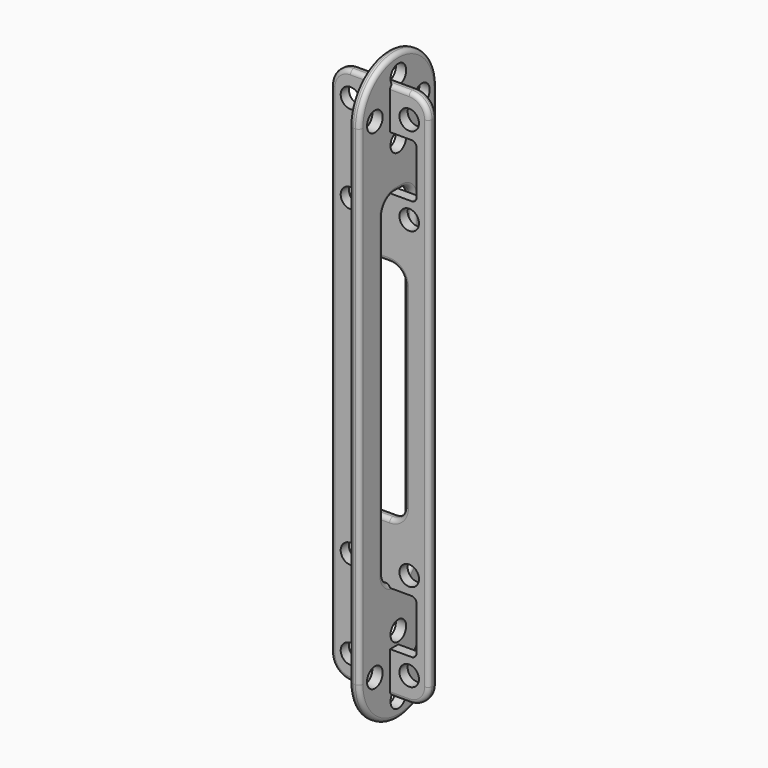
from build123d import *

# Parameters (mm, degrees)
F4_R      = 2
F5_DEPTH  = 2.1
F7_DEPTH  = 2.1
F8_R      = 0.84
F9_R      = 2
F10_DEPTH = 2.1
F11_R     = 0.84


with BuildPart() as f5:
    # F4 (on Front) → F5 (new body)
    with BuildSketch(Plane.XZ):
        with BuildLine():
            ThreePointArc((10, 101), (8.8284271247, 103.8284271247), (6, 105))
            Line((6, 105), (-6, 105))
            ThreePointArc((-6, 105), (-8.8284271247, 103.8284271247), (-10, 101))
            Line((-10, 101), (-10, -1))
            ThreePointArc((-10, -1), (-8.8284271247, -3.8284271247), (-6, -5))
            Line((-6, -5), (6, -5))
            ThreePointArc((6, -5), (8.8284271247, -3.8284271247), (10, -1))
            Line((10, -1), (10, 101))
        make_face()
        with Locations((-6, 0)):
            Circle(F4_R, mode=Mode.SUBTRACT)
        with Locations((-6, 18)):
            Circle(F4_R, mode=Mode.SUBTRACT)
        with Locations((6, 0)):
            Circle(F4_R, mode=Mode.SUBTRACT)
        with Locations((6, 18)):
            Circle(F4_R, mode=Mode.SUBTRACT)
        with BuildLine():
            ThreePointArc((5, 30), (4.1213203436, 27.8786796564), (2, 27))
            Line((2, 27), (-2, 27))
            ThreePointArc((-2, 27), (-4.1213203436, 27.8786796564), (-5, 30))
            Line((-5, 30), (-5, 70))
            ThreePointArc((-5, 70), (-4.1213203436, 72.1213203436), (-2, 73))
            Line((-2, 73), (2, 73))
            ThreePointArc((2, 73), (4.1213203436, 72.1213203436), (5, 70))
            Line((5, 70), (5, 30))
        make_face(mode=Mode.SUBTRACT)
        with Locations((-6, 82)):
            Circle(F4_R, mode=Mode.SUBTRACT)
        with Locations((-6, 100)):
            Circle(F4_R, mode=Mode.SUBTRACT)
        with Locations((6, 82)):
            Circle(F4_R, mode=Mode.SUBTRACT)
        with Locations((6, 100)):
            Circle(F4_R, mode=Mode.SUBTRACT)
    extrude(amount=F5_DEPTH)

    # F6 (on Front) → F7 (cut, through all)
    with BuildSketch(Plane.XZ):
        with BuildLine():
            Line((6.5, 14.5), (-0.5, 14.5))
            ThreePointArc((-0.5, 14.5), (-1.2071067812, 14.2071067812), (-1.5, 13.5))
            Line((-1.5, 13.5), (-1.5, 4.5))
            ThreePointArc((-1.5, 4.5), (-1.2071067812, 3.7928932188), (-0.5, 3.5))
            Line((-0.5, 3.5), (6.5, 3.5))
            ThreePointArc((6.5, 3.5), (7.2071067812, 3.7928932188), (7.5, 4.5))
            Line((7.5, 4.5), (7.5, 13.5))
            ThreePointArc((7.5, 13.5), (7.2071067812, 14.2071067812), (6.5, 14.5))
        make_face()
        with BuildLine():
            ThreePointArc((-1.5, 86.5), (-1.2071067812, 85.7928932188), (-0.5, 85.5))
            Line((-0.5, 85.5), (6.5, 85.5))
            ThreePointArc((6.5, 85.5), (7.2071067812, 85.7928932188), (7.5, 86.5))
            Line((7.5, 86.5), (7.5, 95.5))
            ThreePointArc((7.5, 95.5), (7.2071067812, 96.2071067812), (6.5, 96.5))
            Line((6.5, 96.5), (-0.5, 96.5))
            ThreePointArc((-0.5, 96.5), (-1.2071067812, 96.2071067812), (-1.5, 95.5))
            Line((-1.5, 95.5), (-1.5, 86.5))
        make_face()
    extrude(amount=F7_DEPTH, mode=Mode.SUBTRACT)

    # F8
    f8_edges = [f5.edges().sort_by_distance(p)[0] for p in [
        (10, -1.05, -1),
        (10, -1.05, 101),
        (10, 0, 50),
        (10, -2.1, 50),
        (-5, -1.05, 30),
        (-5, -1.05, 70),
        (-5, 0, 50),
        (-5, -2.1, 50),
    ]]
    fillet(f8_edges, radius=F8_R)


with BuildPart() as f10:
    # F9 (on Right) → F10 (new body)
    with BuildSketch(Plane.YZ):
        with BuildLine():
            ThreePointArc((-9.9, 100), (0, 90.1), (9.9, 100))
            ThreePointArc((9.9, 100), (0, 109.9), (-9.9, 100))
        make_face()
        with Locations((-6, 100)):
            Circle(F9_R, mode=Mode.SUBTRACT)
        with Locations((0, 94)):
            Circle(F9_R, mode=Mode.SUBTRACT)
        with Locations((0, 100)):
            Circle(F9_R, mode=Mode.SUBTRACT)
        with Locations((0, 106)):
            Circle(F9_R, mode=Mode.SUBTRACT)
        with Locations((6, 100)):
            Circle(F9_R, mode=Mode.SUBTRACT)
        with BuildLine():
            Line((9.9, 0), (9.9, 100))
            ThreePointArc((9.9, 100), (0, 90.1), (-9.9, 100))
            Line((-9.9, 100), (-9.9, 0))
            ThreePointArc((-9.9, 0), (0, 9.9), (9.9, 0))
        make_face()
        with BuildLine():
            ThreePointArc((3.9, 17.9), (3.0213203436, 15.7786796564), (0.9, 14.9))
            Line((0.9, 14.9), (-0.9, 14.9))
            ThreePointArc((-0.9, 14.9), (-3.0213203436, 15.7786796564), (-3.9, 17.9))
            Line((-3.9, 17.9), (-3.9, 82.1))
            ThreePointArc((-3.9, 82.1), (-3.0213203436, 84.2213203436), (-0.9, 85.1))
            Line((-0.9, 85.1), (0.9, 85.1))
            ThreePointArc((0.9, 85.1), (3.0213203436, 84.2213203436), (3.9, 82.1))
            Line((3.9, 82.1), (3.9, 17.9))
        make_face(mode=Mode.SUBTRACT)
        with BuildLine():
            ThreePointArc((-9.9, 0), (0, -9.9), (9.9, 0))
            ThreePointArc((9.9, 0), (0, 9.9), (-9.9, 0))
        make_face()
        with Locations((-6, 0)):
            Circle(F9_R, mode=Mode.SUBTRACT)
        with Locations((0, -6)):
            Circle(F9_R, mode=Mode.SUBTRACT)
        Circle(F9_R, mode=Mode.SUBTRACT)
        with Locations((0, 6)):
            Circle(F9_R, mode=Mode.SUBTRACT)
        with Locations((6, 0)):
            Circle(F9_R, mode=Mode.SUBTRACT)
    extrude(amount=F10_DEPTH)

    # F11
    f11_edges = [f10.edges().sort_by_distance(p)[0] for p in [
        (1.05, 9.9, 0),
        (1.05, 9.9, 100),
        (0, 9.9, 50),
        (2.1, 9.9, 50),
        (1.05, -3.9, 17.9),
        (1.05, -3.9, 82.1),
        (0, -3.9, 50),
        (2.1, -3.9, 50),
    ]]
    fillet(f11_edges, radius=F11_R)


solid = Compound([f5.part, f10.part])
